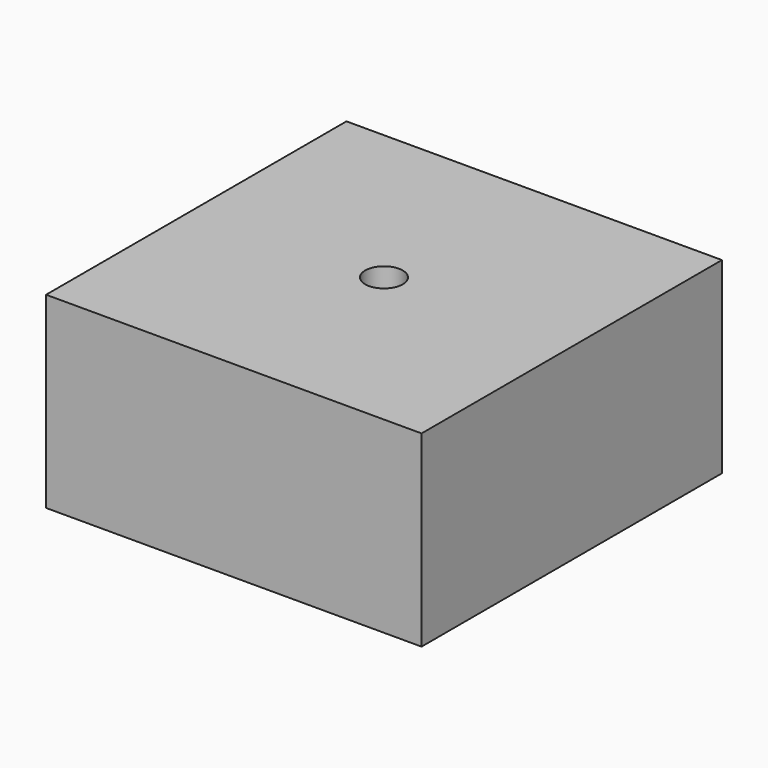
from build123d import *

# Parameters (mm, degrees)
SKETCH_W      = 20
SKETCH_H      = 20
SKETCH_R      = 1
EXTRUDE_DEPTH = 10


with BuildPart() as part:
    # Sketch → Extrude (new body)
    with BuildSketch(Plane.XY):
        Rectangle(SKETCH_W, SKETCH_H)
        Circle(SKETCH_R, mode=Mode.SUBTRACT)
    extrude(amount=EXTRUDE_DEPTH)


solid = part.part
